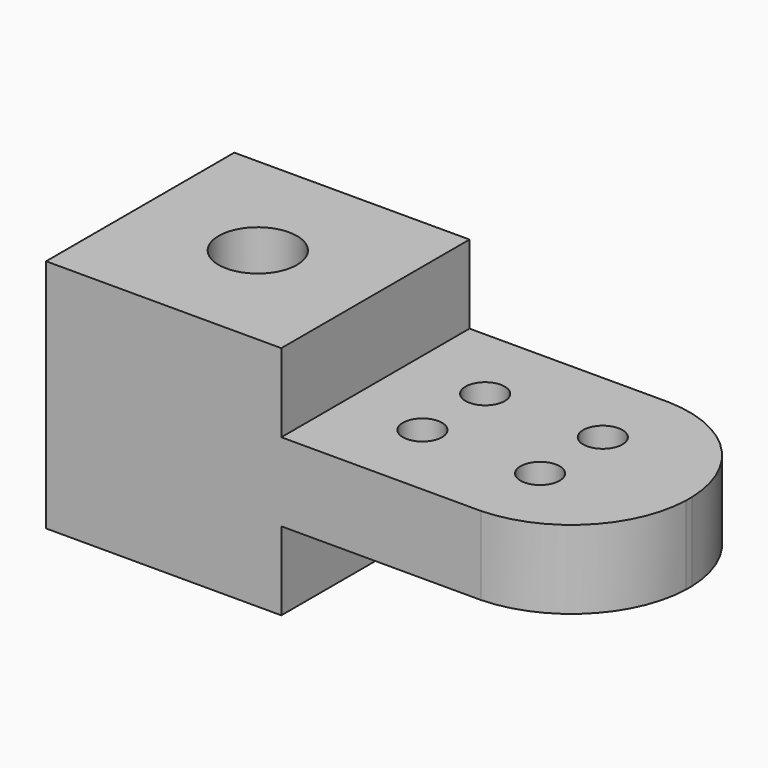
from build123d import *

# Parameters (mm, degrees)
F1_DEPTH = 38.1
F3_DEPTH = 25.401
F4_DEPTH = 25.401
F5_R     = 6.35
F6_DEPTH = 38.101
F7_R     = 3.175
F8_DEPTH = 25.401


with BuildPart() as f1:
    # F0 (on Front) → F1 (new body)
    with BuildSketch(Plane.XZ):
        Polygon((0, 38.1), (0, 0), (38.1, 0), (38.1, 12.7), (88.9, 12.7), (88.9, 25.4), (38.1, 25.4), (38.1, 38.1), align=None)
    extrude(amount=F1_DEPTH)

    # F2 (on face) → F3 (cut, through all)
    with BuildSketch(Plane.XY.offset(25.4)):
        with BuildLine():
            Line((88.9, 0), (70.4316541672, 0))
            ThreePointArc((70.4316541672, 0), (83.3266617077, -5.5733382923), (88.9, -18.4683458328))
            Line((88.9, -18.4683458328), (88.9, 0))
        make_face()
    extrude(amount=-F3_DEPTH, mode=Mode.SUBTRACT)

    # F2 (on face) → F4 (cut, through all)
    with BuildSketch(Plane.XY.offset(25.4)):
        with BuildLine():
            Line((88.9, -38.1), (88.9, -19.6316541672))
            ThreePointArc((88.9, -19.6316541672), (83.3266617077, -32.5266617077), (70.4316541672, -38.1))
            Line((70.4316541672, -38.1), (88.9, -38.1))
        make_face()
    extrude(amount=-F4_DEPTH, mode=Mode.SUBTRACT)

    # F5 (on face) → F6 (cut, through all)
    with BuildSketch(Plane.XY.offset(38.1)):
        with Locations((19.05, -19.05)):
            Circle(F5_R)
    extrude(amount=-F6_DEPTH, mode=Mode.SUBTRACT)

    # F7 (on face) → F8 (cut, through all)
    with BuildSketch(Plane.XY.offset(25.4)):
        with Locations((50.8, -12.7)):
            Circle(F7_R)
        with Locations((69.85, -12.7)):
            Circle(F7_R)
        with Locations((50.8, -25.4)):
            Circle(F7_R)
        with Locations((69.85, -25.4)):
            Circle(F7_R)
    extrude(amount=-F8_DEPTH, mode=Mode.SUBTRACT)


solid = f1.part
